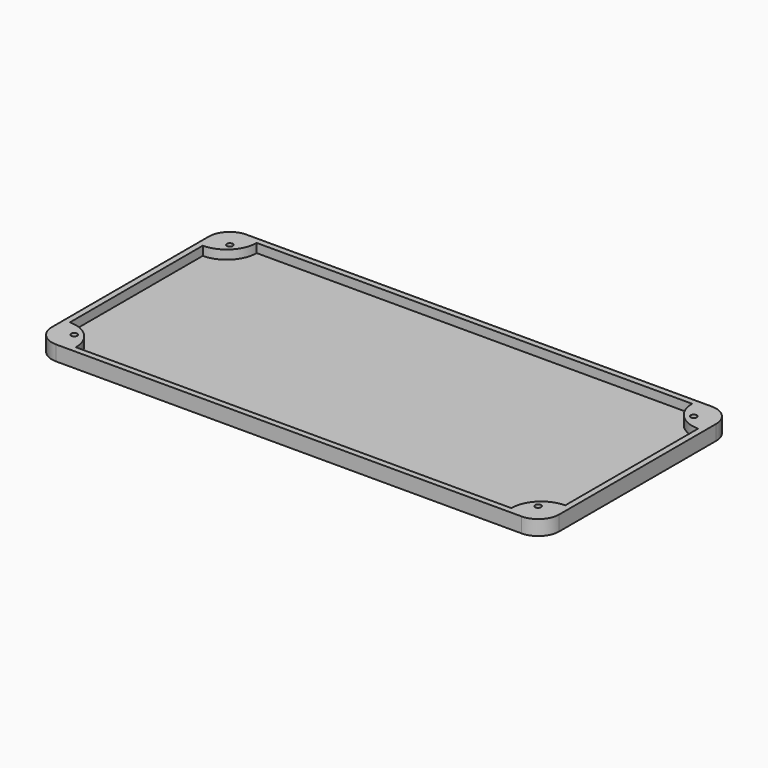
from build123d import *

# Parameters (mm, degrees)
PAD_DEPTH               = 3
THICKNESS_T             = 2
SKETCH001_R             = 1
PAD001_DEPTH            = 3
SKETCH001_MIRRORED_2_R  = 1
PAD001_MIRRORED_2_DEPTH = 3


with BuildPart() as part:
    # Sketch → Pad (new body)
    with BuildSketch(Plane.XY):
        with BuildLine():
            ThreePointArc((-77.75, 37.75), (-81.285534, 36.285534), (-82.75, 32.75))
            Line((-82.75, -32.75), (-82.75, 32.75))
            ThreePointArc((-82.75, -32.75), (-81.285534, -36.285534), (-77.75, -37.75))
            Line((77.75, -37.75), (-77.75, -37.75))
            ThreePointArc((77.75, -37.75), (81.285534, -36.285534), (82.75, -32.75))
            Line((82.75, 32.75), (82.75, -32.75))
            ThreePointArc((82.75, 32.75), (81.285534, 36.285534), (77.75, 37.75))
            Line((-77.75, 37.75), (77.75, 37.75))
        make_face()
    extrude(amount=PAD_DEPTH)

    # Thickness
    thickness_openings = [part.faces().sort_by_distance(p)[0] for p in [
        (0, 0, 3),
    ]]
    offset(amount=THICKNESS_T, openings=thickness_openings, kind=Kind.INTERSECTION)

    # Sketch001 (on Face9 of Thickness) → Pad001 (join)
    with BuildSketch(Plane.XY):
        with BuildLine():
            Line((-82.75, 32.75), (-82.75, 27.75))
            ThreePointArc((-82.75, 27.75), (-75.678932, 30.678932), (-72.75, 37.75))
            Line((-77.75, 37.75), (-72.75, 37.75))
            ThreePointArc((-77.75, 37.75), (-81.285534, 36.285534), (-82.75, 32.75))
        make_face()
        with Locations((-77.5, 32.5)):
            Circle(SKETCH001_R, mode=Mode.SUBTRACT)
    pad001 = extrude(amount=PAD001_DEPTH)

    # Sketch001 Mirrored 2 → Pad001 Mirrored 2 (add)
    with BuildSketch(Plane(origin=(0, 0, 0), x_dir=(-1, 0, 0), z_dir=(0, 0, -1))):
        with BuildLine():
            Line((-82.75, 32.75), (-82.75, 27.75))
            ThreePointArc((-82.75, 27.75), (-75.678932, 30.678932), (-72.75, 37.75))
            Line((-77.75, 37.75), (-72.75, 37.75))
            ThreePointArc((-77.75, 37.75), (-81.285534, 36.285534), (-82.75, 32.75))
        make_face()
        with Locations((-77.5, 32.5)):
            Circle(SKETCH001_MIRRORED_2_R, mode=Mode.SUBTRACT)
    pad001_mirrored_2 = extrude(amount=-PAD001_MIRRORED_2_DEPTH)

    # Mirrored001: Pad001, Pad001 Mirrored 2 across Sketch001 H_Axis
    add(pad001.mirror(Plane.ZX))
    add(pad001_mirrored_2.mirror(Plane.ZX))


solid = part.part
